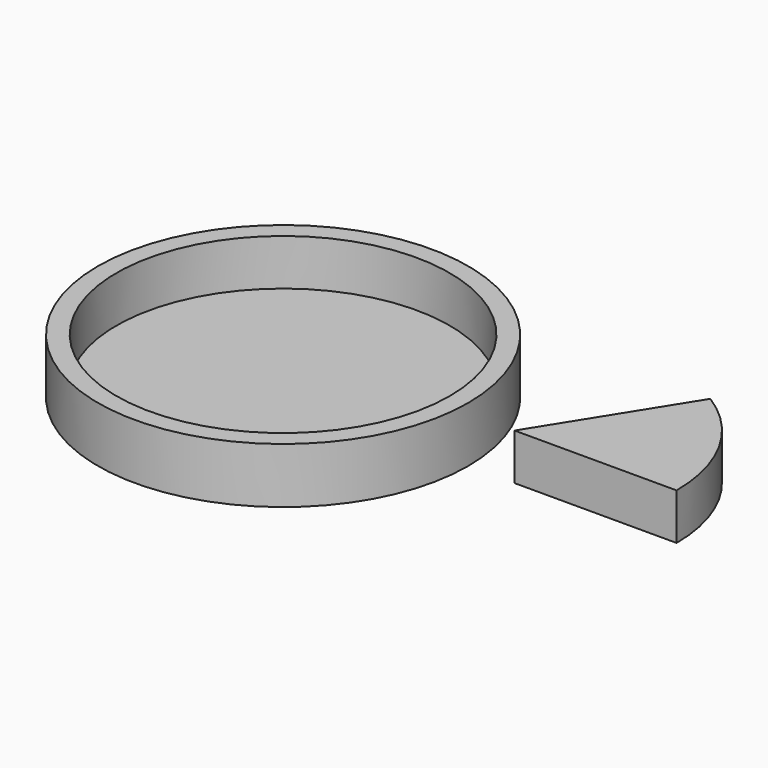
from build123d import *

# Parameters (mm, degrees)
CYLINDER001_R     = 36
CYLINDER001_DEPTH = 10
CYLINDER_R        = 40
CYLINDER_DEPTH    = 12
CYLINDER002_W     = 35
CYLINDER002_H     = 10
CYLINDER002_ANGLE = 58


with BuildPart() as cilindro001:
    # Cylinder001 → Cylinder001 (new body)
    with BuildSketch(Plane.XY.offset(2)):
        Circle(CYLINDER001_R)
    extrude(amount=CYLINDER001_DEPTH)


with BuildPart() as cut:
    # Cylinder → Cylinder (new body)
    with BuildSketch(Plane.XY):
        Circle(CYLINDER_R)
    extrude(amount=CYLINDER_DEPTH)

    # Cut: cut Cilindro001
    add(cilindro001.part, mode=Mode.SUBTRACT)


with BuildPart() as cilindro002:
    # Cylinder002 → Cylinder002 (revolve)
    with BuildSketch(Plane(origin=(50, 0, 0), x_dir=(1, 0, 0), z_dir=(0, -1, 0))):
        with Locations((17.5, 5)):
            Rectangle(CYLINDER002_W, CYLINDER002_H)
    revolve(axis=Axis((50, 0, 0), (0, 0, 1)), revolution_arc=CYLINDER002_ANGLE)


solid = Compound([cut.part, cilindro002.part])
